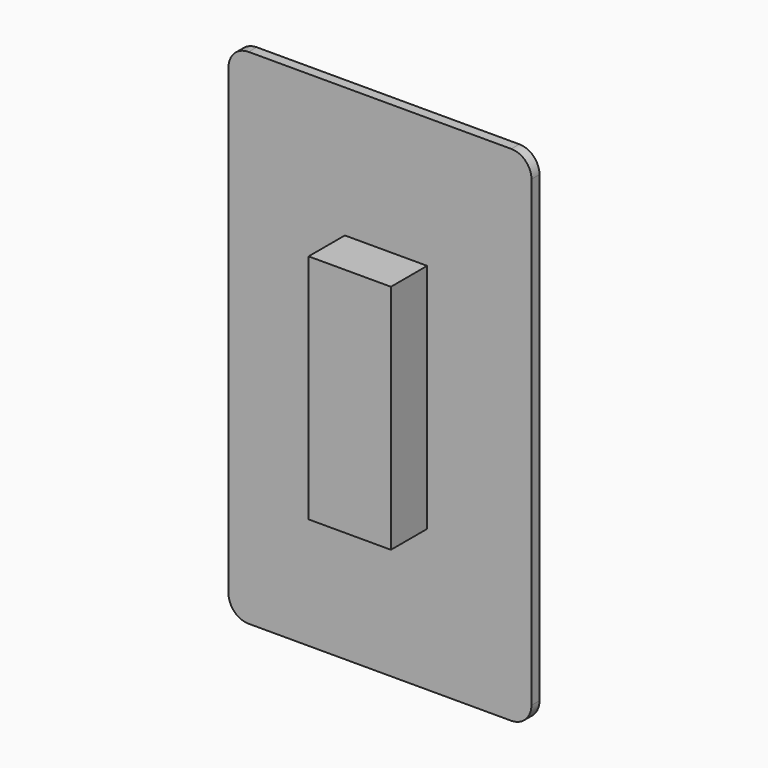
from build123d import *

# Parameters (mm, degrees)
F0_W     = 76.410934
F0_H     = 127
F1_DEPTH = 2.54
F2_R     = 5.08
F3_W     = 20.763844
F3_H     = 58.415605
F4_DEPTH = 13.97


with BuildPart() as f1:
    # F0 (on Front) → F1 (new body)
    with BuildSketch(Plane.XZ):
        with Locations((-2.076384, 0.516346)):
            Rectangle(F0_W, F0_H)
    extrude(amount=F1_DEPTH)

    # F2
    f2_edges = [f1.edges().sort_by_distance(p)[0] for p in [
        (-40.281851, -1.27, 64.016346),
        (36.129083, -1.27, 64.016346),
        (36.129083, -1.27, -62.983654),
        (-40.281851, -1.27, -62.983654),
    ]]
    fillet(f2_edges, radius=F2_R)

    # F3 (on Front) → F4 (join)
    with BuildSketch(Plane.XZ):
        with Locations((-0.553702, 1.937959)):
            Rectangle(F3_W, F3_H)
    extrude(amount=F4_DEPTH)


solid = f1.part
